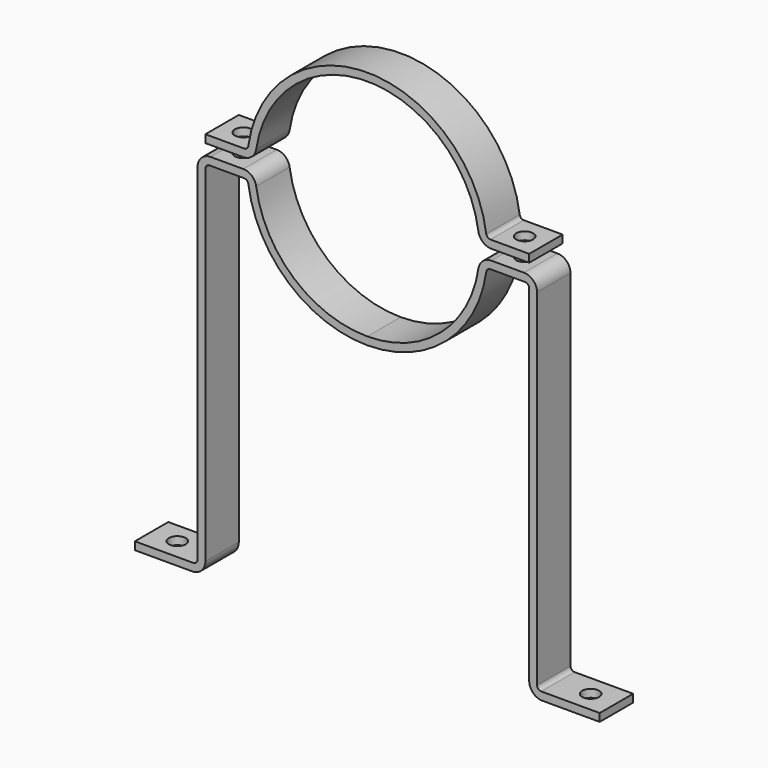
from build123d import *

# Parameters (mm, degrees)
F1_DEPTH = 25.4
F2_R     = 10.3251
F3_DEPTH = 473.076
F4_R     = 10.3251
F5_DEPTH = 25.4
F6_R     = 5.08
F7_R     = 15.875


with BuildPart() as f1:
    # F0 (on Front) → F1 (new body, symmetric)
    with BuildSketch(Plane.XZ):
        with BuildLine():
            ThreePointArc((0, -136.525), (-94.265959, -98.757302), (-136.377246, -6.35))
            Line((-136.377246, -6.35), (-196.85, -6.35))
            Line((-196.85, -6.35), (-206.375, -6.35))
            Line((-206.375, -6.35), (-206.375, -447.675))
            Line((-206.375, -447.675), (-282.575, -447.675))
            Line((-282.575, -447.675), (-282.575, -457.2))
            Line((-282.575, -457.2), (-196.85, -457.2))
            Line((-196.85, -457.2), (-196.85, -15.875))
            Line((-196.85, -15.875), (-145.184665, -15.875))
            ThreePointArc((-145.184665, -15.875), (-97.498869, -108.740853), (0, -146.05))
            Line((0, -146.05), (0, -136.525))
        make_face()
        with BuildLine():
            ThreePointArc((-136.377246, 6.35), (0, 136.525), (136.377246, 6.35))
            Line((136.377246, 6.35), (196.85, 6.35))
            Line((196.85, 6.35), (196.85, 15.875))
            Line((196.85, 15.875), (145.184665, 15.875))
            ThreePointArc((145.184665, 15.875), (0, 146.05), (-145.184665, 15.875))
            Line((-145.184665, 15.875), (-196.85, 15.875))
            Line((-196.85, 15.875), (-196.85, 6.35))
            Line((-196.85, 6.35), (-136.377246, 6.35))
        make_face()
        with BuildLine():
            ThreePointArc((136.377246, -6.35), (94.265959, -98.757302), (0, -136.525))
            Line((0, -136.525), (0, -146.05))
            ThreePointArc((0, -146.05), (97.498869, -108.740853), (145.184665, -15.875))
            Line((145.184665, -15.875), (196.85, -15.875))
            Line((196.85, -15.875), (196.85, -6.35))
            Line((196.85, -6.35), (136.377246, -6.35))
        make_face()
        Polygon((206.375, -6.35), (196.85, -6.35), (196.85, -15.875), (196.85, -457.2), (282.575, -457.2), (282.575, -447.675), (206.375, -447.675), align=None)
    extrude(amount=F1_DEPTH, both=True)

    # F2 (on face) → F3 (cut, through all)
    with BuildSketch(Plane.XY.offset(15.875)):
        with Locations((-171.017332, 0)):
            Circle(F2_R)
        with Locations((171.017332, 0)):
            Circle(F2_R)
    extrude(amount=-F3_DEPTH, mode=Mode.SUBTRACT)

    # F4 (on face) → F5 (cut)
    with BuildSketch(Plane.XY.offset(-447.675)):
        with Locations((-251.263201, 0)):
            Circle(F4_R)
        with Locations((251.263201, 0)):
            Circle(F4_R)
    extrude(amount=-F5_DEPTH, mode=Mode.SUBTRACT)

    # F6
    f6_edges = [f1.edges().sort_by_distance(p)[0] for p in [
        (-206.375, 0, -447.675),
        (-145.184665, 0, 15.875),
        (145.184665, 0, 15.875),
        (206.375, 0, -447.675),
        (196.85, 0, -15.875),
        (145.184665, 0, -15.875),
        (-196.85, 0, -15.875),
        (-145.184665, 0, -15.875),
    ]]
    fillet(f6_edges, radius=F6_R)

    # F7
    f7_edges = [f1.edges().sort_by_distance(p)[0] for p in [
        (-136.377246, 0, -6.35),
        (-206.375, 0, -6.35),
        (-136.377246, 0, 6.35),
        (206.375, 0, -6.35),
        (136.377246, 0, -6.35),
        (136.377246, 0, 6.35),
        (-196.85, 0, -457.2),
        (196.85, 0, -457.2),
    ]]
    fillet(f7_edges, radius=F7_R)


solid = f1.part
